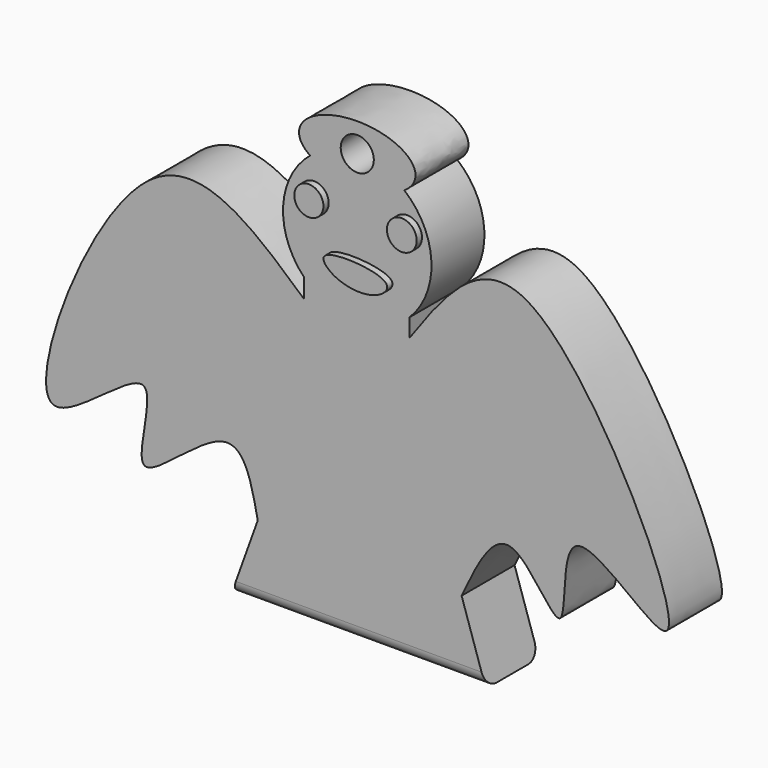
from build123d import *

# Parameters (mm, degrees)
F1_DEPTH = 10
F3_D     = 5
F4_R     = 2
F5_R     = 2.2010626182
F5_R_2   = 2.2476013901
F6_DEPTH = 1


with BuildPart() as f1:
    # F0 (on Front) → F1 (new body)
    with BuildSketch(Plane.XZ):
        with BuildLine():
            Line((7.8818565235, -10.7229892164), (7.8818565235, -7.9735051841))
            ThreePointArc((7.8818565235, -7.9735051841), (11.1998724072, 0.5131327699), (7.1197392626, 8.6608175139))
            add(Edge.make_bspline(
                [(-7.1197392626, 8.6608175139), (0, 3.8217201368), (7.1197392626, 8.6608175139)],
                knots=[0.6279849221, 0.6279849221, 0.6279849221, 2.5136077315, 2.5136077315, 2.5136077315], degree=2, weights=[1, 0.5875153245, 1]))
            ThreePointArc((-7.1197392626, 8.6608175139), (-11.1943824638, 0.6214888819), (-8.0346909004, -7.8194750023))
            Line((-8.0346909004, -7.8194750023), (-8.0346909004, -10.7229892164))
            add(Edge.make_bspline(
                [(-8.0346909004, -10.7229892164), (-15.813925183, -3.7585140221), (-33.1795579045, 11.7883269559), (-56.4637239472, -52.374785533), (-27.1154298981, -21.3353841275), (-36.8181095198, -48.7777674209), (-18.0472198067, -27.6257742323), (-15.9819535103, -37.7634383089), (-15.0305153802, -42.4337126315)],
                knots=[0, 0, 0, 0, 0.1975948756, 0.4410922609, 0.5962619137, 0.724707052, 0.8731765448, 1, 1, 1, 1], degree=3))
            Line((-15.0305153802, -42.4337126315), (-19.0630927682, -53.6149479449))
            Line((-19.0630927682, -53.6149479449), (19.4296929985, -53.6149479449))
            Line((19.4296929985, -53.6149479449), (15.7637130469, -42.4337126315))
            add(Edge.make_bspline(
                [(7.8818565235, -10.7229892164), (13.1873651895, -3.2857360268), (26.0919837912, 14.8039367826), (58.4067835946, -53.353660405), (29.2285982647, -21.1082556225), (32.8950656358, -48.1081471296), (22.6656710056, -27.7307180672), (18.1241827222, -37.4052883768), (15.7637130469, -42.4337126315)],
                knots=[0, 0, 0, 0, 0.1835465907, 0.446441406, 0.6028909476, 0.7350133214, 0.8622713568, 1, 1, 1, 1], degree=3))
        make_face()
        with BuildLine():
            add(Edge.make_bspline(
                [(-7.1197392626, 8.6608175139), (0, 3.8217201368), (7.1197392626, 8.6608175139)],
                knots=[0.6279849221, 0.6279849221, 0.6279849221, 2.5136077315, 2.5136077315, 2.5136077315], degree=2, weights=[1, 0.5875153245, 1]))
            ThreePointArc((7.1197392626, 8.6608175139), (0, 11.2116210771), (-7.1197392626, 8.6608175139))
        make_face()
        with BuildLine():
            ThreePointArc((-7.1197392626, 8.6608175139), (0, 11.2116210771), (7.1197392626, 8.6608175139))
            add(Edge.make_bspline(
                [(7.1197392626, 8.6608175139), (14.2332371547, 13.4956727976), (2.717443753, 15.3410279156), (-8.7983496487, 17.1863830337), (-8.7983496487, 11.2116210771)],
                knots=[2.5136077315, 2.5136077315, 2.5136077315, 4.3983965193, 4.3983965193, 6.2831853072, 6.2831853072, 6.2831853072], degree=2, weights=[1, 0.587852724, 1, 0.587852724, 1]))
            add(Edge.make_bspline(
                [(-8.7983496487, 11.2116210771), (-8.7983496487, 9.8017243389), (-7.1197392626, 8.6608175139)],
                knots=[0, 0, 0, 0.6279849221, 0.6279849221, 0.6279849221], degree=2, weights=[1, 0.9511080484, 1]))
        make_face()
    extrude(amount=F1_DEPTH)

    # F3 (through all)
    with Locations(Plane.XZ.offset(10)):
        with Locations((0, 11.2116210771)):
            Hole(F3_D / 2)

    # F4
    f4_edges = [f1.edges().sort_by_distance(p)[0] for p in [
        (0.1833, -10, -53.614948),
        (0.1833, 0, -53.614948),
    ]]
    fillet(f4_edges, radius=F4_R)

    # F5 (on face) → F6 (join)
    with BuildSketch(Plane.XZ.offset(10)):
        with Locations((-6.5116276965, 3.2558140811)):
            Circle(F5_R)
        with Locations((7.5290696695, 3.2558140811)):
            Circle(F5_R_2)
        with BuildLine():
            add(Edge.make_bspline(
                [(-4.0697674267, -3.2558140811), (-4.7475910347, -3.8316378789), (-2.4914750523, -6.4021135325), (3.7109853439, -6.8575893566), (7.2133571685, -2.7874127354), (-2.8091242129, -2.1848741573), (-4.0697674267, -3.2558140811)],
                knots=[0, 0, 0, 0, 0.186090632, 0.4779076007, 0.6539012663, 1, 1, 1, 1], degree=3))
        make_face()
    extrude(amount=F6_DEPTH)


solid = f1.part
